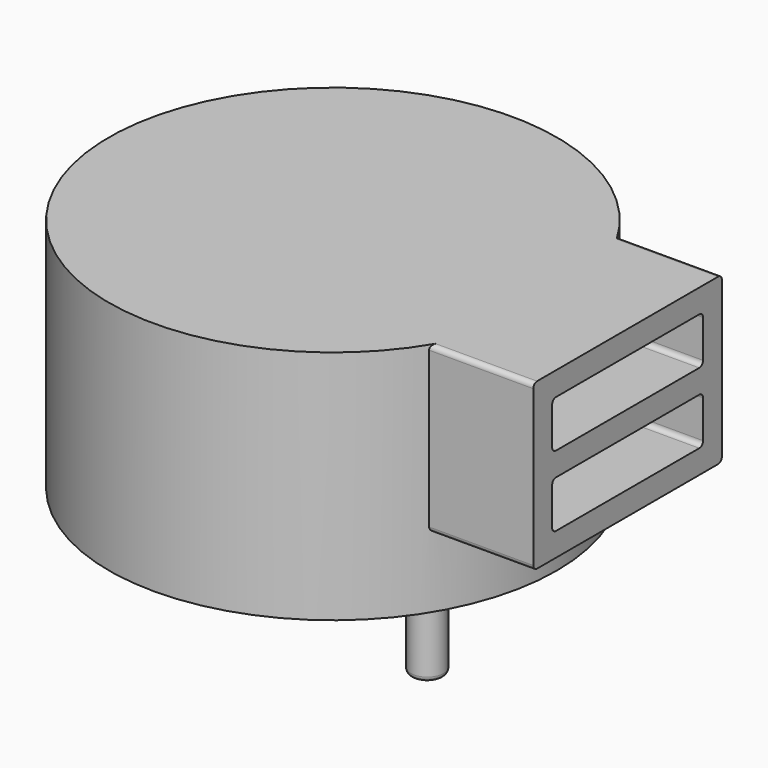
from build123d import *

# Parameters (mm, degrees)
CYLINDER001_R     = 0.35
CYLINDER001_DEPTH = 3.2
FILLET003_R       = 0.1
CYLINDER003_R     = 0.35
CYLINDER003_DEPTH = 3.2
FILLET004_R       = 0.1
BOX002_W          = 5
BOX002_H          = 4
BOX002_DEPTH      = 1
FILLET002_R       = 0.1
BOX001_W          = 5
BOX001_H          = 4
BOX001_DEPTH      = 1
FILLET001_R       = 0.1
BOX_W             = 3
BOX_H             = 5
BOX_DEPTH         = 3.5
FILLET_R          = 0.1
CYLINDER002_R     = 4.25
CYLINDER002_DEPTH = 0.2
CYLINDER_R        = 4.75
CYLINDER_DEPTH    = 5


with BuildPart() as fillet003:
    # Cylinder001 → Cylinder001 (new body)
    with BuildSketch(Plane(origin=(2, 0, -2.8), x_dir=(1, 0, 0), z_dir=(0, 0, 1))):
        Circle(CYLINDER001_R)
    extrude(amount=CYLINDER001_DEPTH)

    # Fillet003
    fillet003_edges = [fillet003.edges().sort_by_distance(p)[0] for p in [
        (1.65, 0, -2.8),
    ]]
    fillet(fillet003_edges, radius=FILLET003_R)


with BuildPart() as fillet004:
    # Cylinder003 → Cylinder003 (new body)
    with BuildSketch(Plane(origin=(-2, 0, -2.8), x_dir=(1, 0, 0), z_dir=(0, 0, 1))):
        Circle(CYLINDER003_R)
    extrude(amount=CYLINDER003_DEPTH)

    # Fillet004
    fillet004_edges = [fillet004.edges().sort_by_distance(p)[0] for p in [
        (-2.35, 0, -2.8),
    ]]
    fillet(fillet004_edges, radius=FILLET004_R)


with BuildPart() as fillet002:
    # Box002 → Box002 (new body)
    with BuildSketch(Plane(origin=(2, -2, 2), x_dir=(1, 0, 0), z_dir=(0, 0, 1))):
        with Locations((2.5, 2)):
            Rectangle(BOX002_W, BOX002_H)
    extrude(amount=BOX002_DEPTH)

    # Fillet002
    fillet002_edges = [fillet002.edges().sort_by_distance(p)[0] for p in [
        (4.5, -2, 2),
        (4.5, -2, 3),
        (4.5, 2, 2),
        (4.5, 2, 3),
    ]]
    fillet(fillet002_edges, radius=FILLET002_R)


with BuildPart() as fillet002_1:
    # Fillet002 placement: moved
    add(fillet002.part.moved(Location((0, 0, 1.5))))


with BuildPart() as fusion001:
    # Box001 → Box001 (new body)
    with BuildSketch(Plane(origin=(2, -2, 2), x_dir=(1, 0, 0), z_dir=(0, 0, 1))):
        with Locations((2.5, 2)):
            Rectangle(BOX001_W, BOX001_H)
    extrude(amount=BOX001_DEPTH)

    # Fillet001
    fillet001_edges = [fusion001.edges().sort_by_distance(p)[0] for p in [
        (4.5, -2, 2),
        (4.5, -2, 3),
        (4.5, 2, 2),
        (4.5, 2, 3),
    ]]
    fillet(fillet001_edges, radius=FILLET001_R)

    # Fusion001: union Fillet002
    add(fillet002_1.part)


with BuildPart() as fillet_body:
    # Box → Box (new body)
    with BuildSketch(Plane(origin=(3.25, -2.5, 1.5), x_dir=(1, 0, 0), z_dir=(0, 0, 1))):
        with Locations((1.5, 2.5)):
            Rectangle(BOX_W, BOX_H)
    extrude(amount=BOX_DEPTH)

    # Fillet
    fillet_edges = [fillet_body.edges().sort_by_distance(p)[0] for p in [
        (4.75, -2.5, 1.5),
        (4.75, -2.5, 5),
        (4.75, 2.5, 1.5),
        (4.75, 2.5, 5),
    ]]
    fillet(fillet_edges, radius=FILLET_R)


with BuildPart() as cylinder002:
    # Cylinder002 → Cylinder002 (new body)
    with BuildSketch(Plane.XY):
        Circle(CYLINDER002_R)
    extrude(amount=CYLINDER002_DEPTH)


with BuildPart() as cut001:
    # Cylinder → Cylinder (new body)
    with BuildSketch(Plane.XY):
        Circle(CYLINDER_R)
    extrude(amount=CYLINDER_DEPTH)

    # Cut: cut Cylinder002
    add(cylinder002.part, mode=Mode.SUBTRACT)

    # Fusion: union Fillet body
    add(fillet_body.part)

    # Cut001: cut Fusion001
    add(fusion001.part, mode=Mode.SUBTRACT)


solid = Compound([fillet003.part, fillet004.part, cut001.part])
